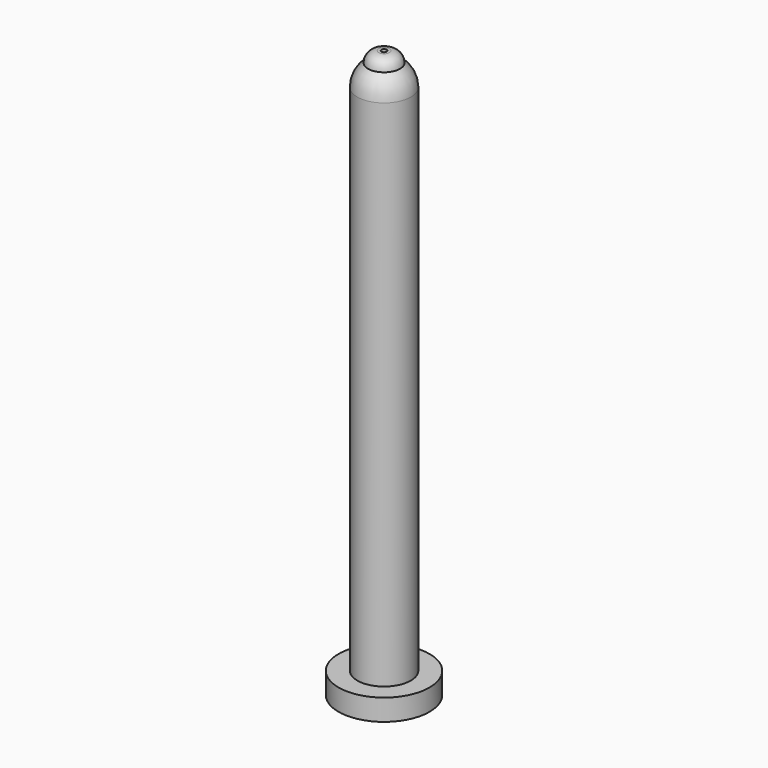
from build123d import *

# Parameters (mm, degrees)
F0_R     = 8.5
F1_DEPTH = 4
F2_R     = 5
F3_DEPTH = 100
F6_R     = 0.5
F7_DEPTH = 169.1


with BuildPart() as f1:
    # F0 (on Top) → F1 (new body)
    with BuildSketch(Plane.XY):
        Circle(F0_R)
    extrude(amount=F1_DEPTH)

    # F2 (on Top) → F3 (join)
    with BuildSketch(Plane.XY):
        Circle(F2_R)
    extrude(amount=F3_DEPTH)

    # F4 (on Right) → F5 (revolve)
    with BuildSketch(Plane.YZ):
        with BuildLine():
            Line((0, 104), (0, 100))
            Line((0, 100), (5, 100))
            ThreePointArc((5, 100), (4.472136, 102.236068), (3, 104))
            Line((3, 104), (0, 104))
        make_face()
        with BuildLine():
            ThreePointArc((0, 105), (1.581139, 104.743416), (3, 104))
            ThreePointArc((3, 104), (2.414214, 105.414214), (1, 106))
            Line((1, 106), (0, 106))
            Line((0, 106), (0, 105))
        make_face()
        with BuildLine():
            Line((0, 105), (0, 104))
            Line((0, 104), (3, 104))
            ThreePointArc((3, 104), (1.581139, 104.743416), (0, 105))
        make_face()
    revolve(axis=Axis((0, 0, 103), (0, 0, -1)))

    # F6 (on face) → F7 (cut)
    with BuildSketch(Plane(origin=(0, 0, 0), x_dir=(1, 0, 0), z_dir=(0, 0, -1))):
        Circle(F6_R)
    extrude(amount=-F7_DEPTH, mode=Mode.SUBTRACT)


solid = f1.part
